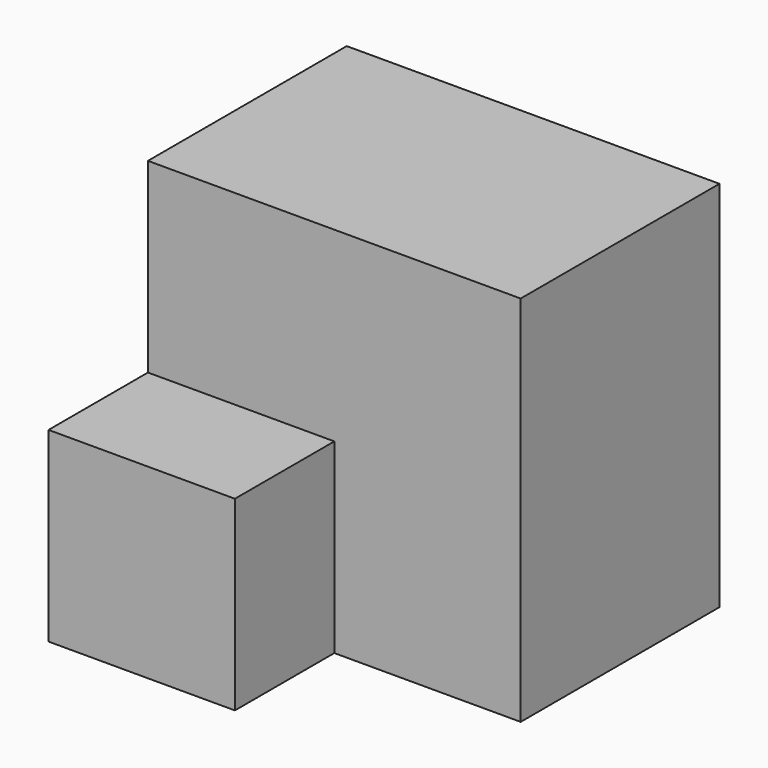
from build123d import *

# Parameters (mm, degrees)
F1_W     = 76.2
F1_H     = 76.2
F2_DEPTH = 50.8
F3_W     = 38.1
F3_H     = 38.1
F4_DEPTH = 25.4


with BuildPart() as f2:
    # F1 (on face) → F2 (new body)
    with BuildSketch(Plane.XZ):
        with Locations((-38.1, 38.1)):
            Rectangle(F1_W, F1_H)
    extrude(amount=F2_DEPTH)

    # F3 (on face) → F4 (join)
    with BuildSketch(Plane.XZ.offset(50.8)):
        with Locations((-57.15, 19.05)):
            Rectangle(F3_W, F3_H)
    extrude(amount=F4_DEPTH)


solid = f2.part
